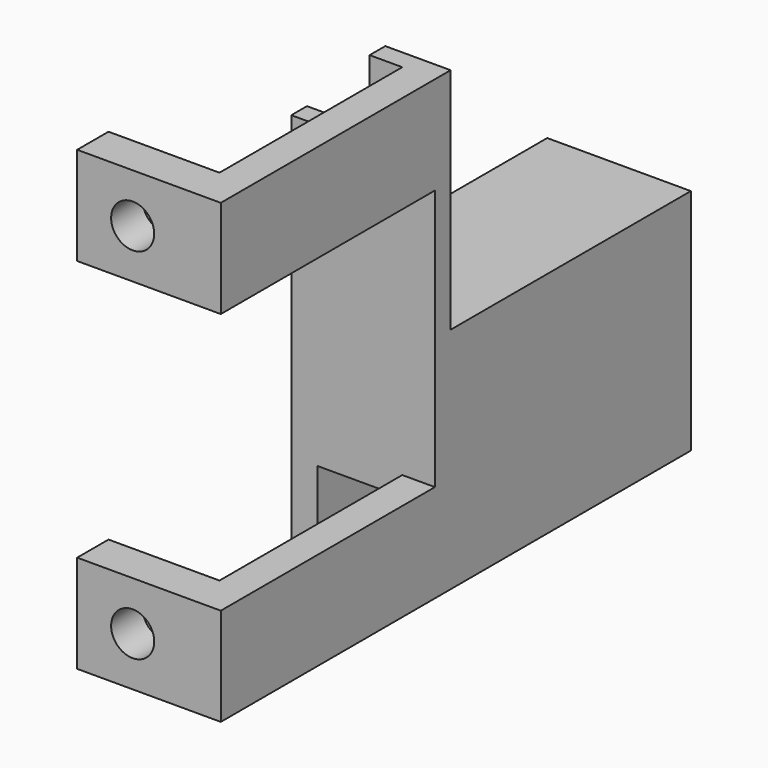
from build123d import *

# Parameters (mm, degrees)
SKETCH001_W  = 41
SKETCH001_H  = 40
PAD001_DEPTH = 22
SKETCH002_W  = 46
SKETCH002_H  = 35
PAD002_DEPTH = 22
SKETCH003_W  = 35
SKETCH003_H  = 17
PAD003_DEPTH = 70
SKETCH004_W  = 43
SKETCH004_H  = 29
PAD004_DEPTH = 2
SKETCH008_R  = 3.3
PAD006_DEPTH = 6
SKETCH007_R  = 3.3
PAD005_DEPTH = 6
SKETCH009_W  = 12
SKETCH009_H  = 12
PAD007_DEPTH = 3
SKETCH010_W  = 10
SKETCH010_H  = 49
PAD008_DEPTH = 12
SKETCH_W     = 90
SKETCH_H     = 70
PAD_DEPTH    = 22


with BuildPart() as body001:
    # Sketch001 (on Face1 of CopyPad) → Pad001 (new body)
    with BuildSketch(Plane.YZ.offset(22)):
        with Locations((20.5, 35)):
            Rectangle(SKETCH001_W, SKETCH001_H)
    extrude(amount=-PAD001_DEPTH)


with BuildPart() as body002:
    # Sketch002 (on Face1 of CopyPad001) → Pad002 (new body)
    with BuildSketch(Plane.YZ.offset(22)):
        with Locations((67, 52.5)):
            Rectangle(SKETCH002_W, SKETCH002_H)
    extrude(amount=-PAD002_DEPTH)


with BuildPart() as body003:
    # Sketch003 (on Face1 of CopyBoolean001) → Pad003 (new body)
    with BuildSketch(Plane.YX):
        with Locations((23.5, 8.5)):
            Rectangle(SKETCH003_W, SKETCH003_H)
    extrude(amount=-PAD003_DEPTH)


with BuildPart() as body004:
    # Sketch004 (on Face1 of CopyBoolean002) → Pad004 (new body)
    with BuildSketch(Plane(origin=(0, 0, 0), x_dir=(0, -1, 0), z_dir=(-1, 0, 0))):
        with Locations((-65.5, 17.5)):
            Rectangle(SKETCH004_W, SKETCH004_H)
    extrude(amount=-PAD004_DEPTH)


with BuildPart() as body007:
    # Sketch008 → Pad006 (new body)
    with BuildSketch(Plane(origin=(0, 0, 0), x_dir=(0, 0, -1), z_dir=(0, -1, 0))):
        with Locations((-7.5, 8.5)):
            Circle(SKETCH008_R)
    extrude(amount=-PAD006_DEPTH)


with BuildPart() as body007_1:
    # Body007 placement: moved
    add(body007.part.moved(Location((0, 0, 55))))


with BuildPart() as body006:
    # Sketch007 → Pad005 (new body)
    with BuildSketch(Plane(origin=(0, 0, 0), x_dir=(0, 0, -1), z_dir=(0, -1, 0))):
        with Locations((-7.5, 8.5)):
            Circle(SKETCH007_R)
    extrude(amount=-PAD005_DEPTH)


with BuildPart() as body008:
    # Sketch009 (on Face1 of CopyBoolean005) → Pad007 (new body)
    with BuildSketch(Plane.XZ.offset(-41)):
        with Locations((6, 64)):
            Rectangle(SKETCH009_W, SKETCH009_H)
    extrude(amount=-PAD007_DEPTH)


with BuildPart() as body009:
    # Sketch010 (on Face1 of CopyBoolean006) → Pad008 (new body)
    with BuildSketch(Plane(origin=(0, 0, 0), x_dir=(1, 0, 0), z_dir=(0, 0, -1))):
        with Locations((9, -65.5)):
            Rectangle(SKETCH010_W, SKETCH010_H)
    extrude(amount=-PAD008_DEPTH)


with BuildPart() as body:
    # Sketch → Pad (new body)
    with BuildSketch(Plane.YZ):
        with Locations((45, 35)):
            Rectangle(SKETCH_W, SKETCH_H)
    extrude(amount=PAD_DEPTH)

    # Boolean: cut Body001
    add(body001.part, mode=Mode.SUBTRACT)

    # Boolean001: cut Body002
    add(body002.part, mode=Mode.SUBTRACT)

    # Boolean002: cut Body003
    add(body003.part, mode=Mode.SUBTRACT)

    # Boolean003: cut Body004
    add(body004.part, mode=Mode.SUBTRACT)

    # Boolean004: cut Body007
    add(body007_1.part, mode=Mode.SUBTRACT)

    # Boolean005: cut Body006
    add(body006.part, mode=Mode.SUBTRACT)

    # Boolean006: cut Body008
    add(body008.part, mode=Mode.SUBTRACT)

    # Boolean007: cut Body009
    add(body009.part, mode=Mode.SUBTRACT)


solid = body.part
